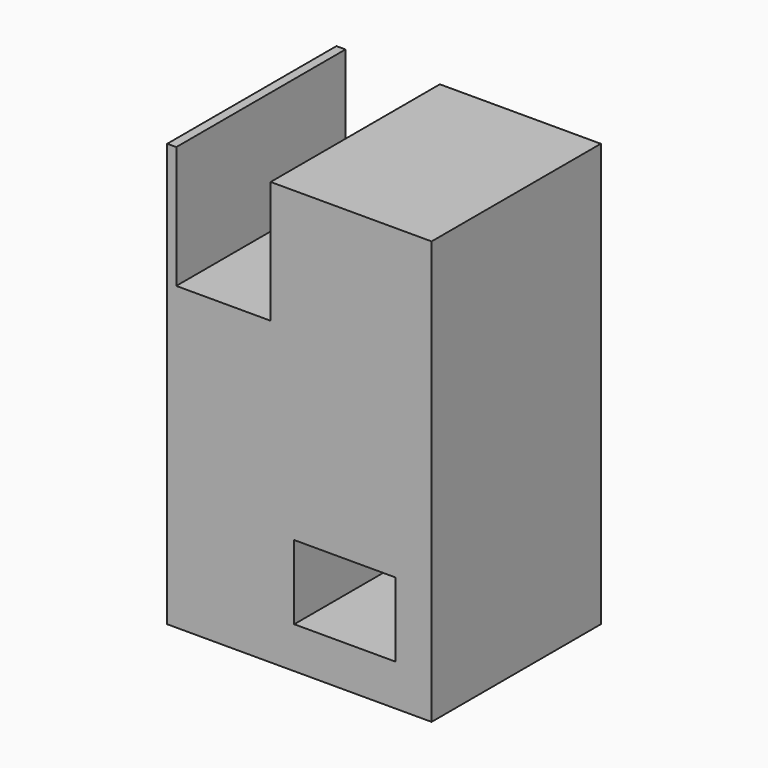
from build123d import *

# Parameters (mm, degrees)
F2_DEPTH = 25.4


with BuildPart() as f2:
    # F0 (on Front) → F2 (new body)
    with BuildSketch(Plane.XZ):
        Polygon((-6.35, -25.4), (25.4, -25.4), (25.4, 25.4), (6.070666, 25.4), (6.070666, 10.724831), (-5.261237, 10.724831), (-5.261237, 25.4), (-6.35, 25.4), align=None)
        Polygon((8.903639, -15.986069), (8.903639, -11.534252), (14.974297, -11.534252), (21.044955, -11.534252), (21.044955, -15.986069), (21.044955, -20.437885), (14.974297, -20.437885), (8.903639, -20.437885), align=None, mode=Mode.SUBTRACT)
    extrude(amount=F2_DEPTH)


solid = f2.part
